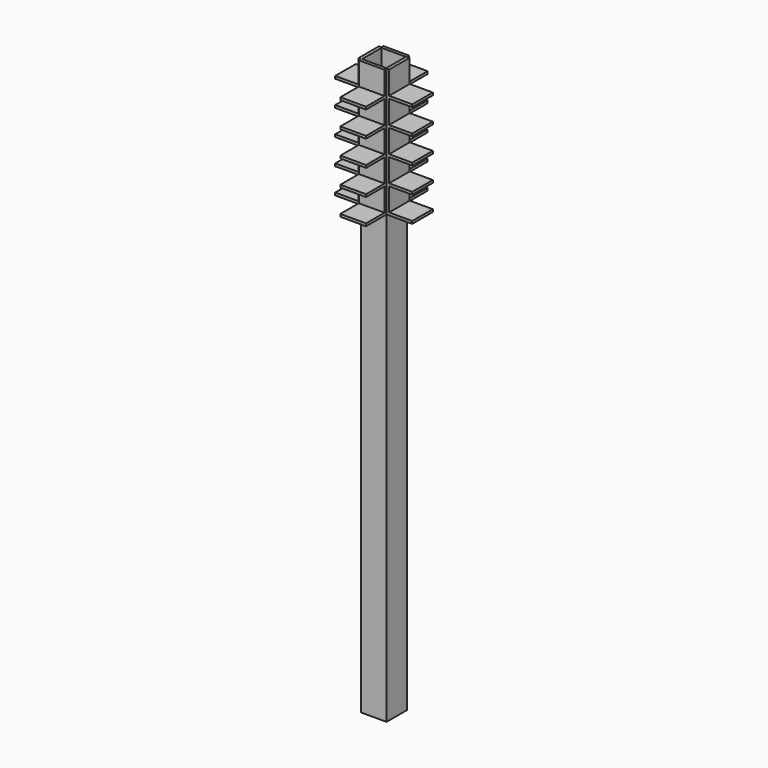
from build123d import *

# Parameters (mm, degrees)
F0_W          = 31.75
F0_H          = 31.75
F0_W_2        = 30.1625
F0_H_2        = 30.1625
F1_DEPTH      = 711.2
F5_START      = 552.45
F4_W          = 31.75
F4_H          = 31.75
F5_DEPTH      = 158.75
F6_W          = 28.575
F6_H          = 28.575
F7_DEPTH      = 25.4
F7_DEPTH_BACK = 25.4
F8_W          = 28.575
F8_H          = 28.575
F9_DEPTH      = 25.4
F9_DEPTH_BACK = 25.4
F11_START     = 552.45
F10_W         = 30.1625
F10_H         = 30.1625
F11_DEPTH     = 158.75


with BuildPart() as f1:
    # F0 (on Top) → F1 (new body)
    with BuildSketch(Plane.XY):
        Rectangle(F0_W, F0_H)
        Rectangle(F0_W_2, F0_H_2, mode=Mode.SUBTRACT)
    extrude(amount=F1_DEPTH)

    # F4 (on Top) → F5 (join)
    with BuildSketch(Plane.XY.offset(F5_START)):
        with Locations((31.75, 0)):
            Rectangle(F4_W, F4_H)
        with Locations((-31.75, 0)):
            Rectangle(F4_W, F4_H)
        with Locations((0, 31.75)):
            Rectangle(F4_W, F4_H)
        with Locations((0, -31.75)):
            Rectangle(F4_W, F4_H)
    extrude(amount=F5_DEPTH)

    # F6 (on Front) → F7 (cut, two sides)
    with BuildSketch(Plane.XZ) as f7_sk:
        with Locations((33.3375, 665.1625)):
            Rectangle(F6_W, F6_H)
        with Locations((33.3375, 696.9125)):
            Rectangle(F6_W, F6_H)
        with Locations((-33.3375, 696.9125)):
            Rectangle(F6_W, F6_H)
        with Locations((-33.3375, 665.1625)):
            Rectangle(F6_W, F6_H)
        with Locations((33.3375, 633.4125)):
            Rectangle(F6_W, F6_H)
        with Locations((33.3375, 601.6625)):
            Rectangle(F6_W, F6_H)
        with Locations((33.3375, 569.9125)):
            Rectangle(F6_W, F6_H)
        with Locations((-33.3375, 633.4125)):
            Rectangle(F6_W, F6_H)
        with Locations((-33.3375, 601.6625)):
            Rectangle(F6_W, F6_H)
        with Locations((-33.3375, 569.9125)):
            Rectangle(F6_W, F6_H)
    extrude(amount=-F7_DEPTH, mode=Mode.SUBTRACT)
    extrude(f7_sk.sketch, amount=F7_DEPTH_BACK, mode=Mode.SUBTRACT)

    # F8 (on Right) → F9 (cut, two sides)
    with BuildSketch(Plane.YZ) as f9_sk:
        with Locations((33.3375, 696.9125)):
            Rectangle(F8_W, F8_H)
        with Locations((33.3375, 665.1625)):
            Rectangle(F8_W, F8_H)
        with Locations((-33.3375, 696.9125)):
            Rectangle(F8_W, F8_H)
        with Locations((-33.3375, 665.1625)):
            Rectangle(F8_W, F8_H)
        with Locations((33.3375, 633.4125)):
            Rectangle(F8_W, F8_H)
        with Locations((33.3375, 601.6625)):
            Rectangle(F8_W, F8_H)
        with Locations((33.3375, 569.9125)):
            Rectangle(F8_W, F8_H)
        with Locations((-33.3375, 633.4125)):
            Rectangle(F8_W, F8_H)
        with Locations((-33.3375, 601.6625)):
            Rectangle(F8_W, F8_H)
        with Locations((-33.3375, 569.9125)):
            Rectangle(F8_W, F8_H)
    extrude(amount=-F9_DEPTH, mode=Mode.SUBTRACT)
    extrude(f9_sk.sketch, amount=F9_DEPTH_BACK, mode=Mode.SUBTRACT)


with BuildPart() as f11:
    # F10 (on Top) → F11 (new body)
    with BuildSketch(Plane.XY.offset(F11_START)):
        Rectangle(F10_W, F10_H)
    extrude(amount=F11_DEPTH)


solid = f1.part
